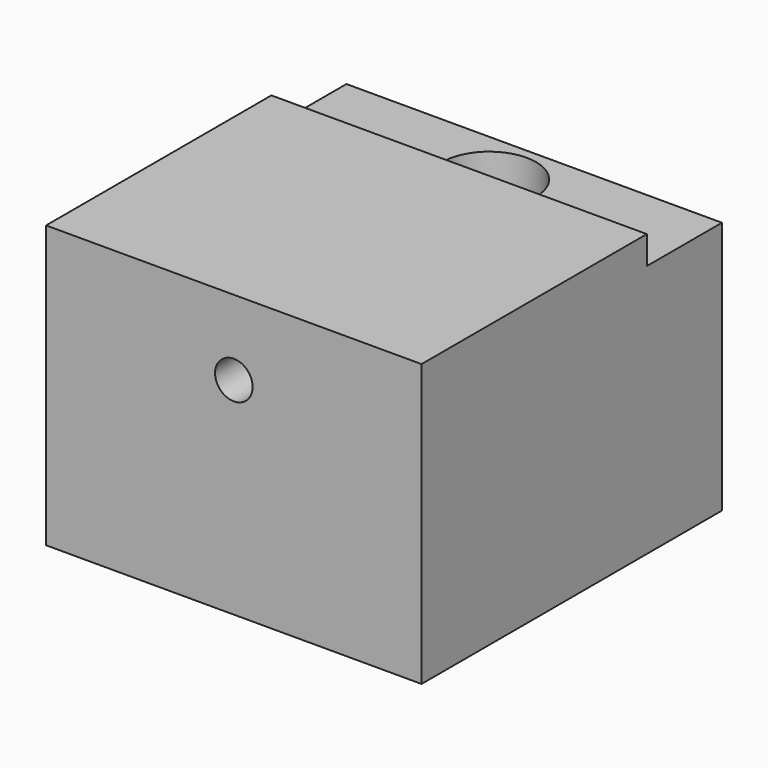
from build123d import *

# Parameters (mm, degrees)
F0_W     = 20
F0_H     = 20
F1_DEPTH = 15
F2_W     = 50.179663
F2_H     = 15.178498
F3_DEPTH = 1.5
F4_R     = 2.5
F5_DEPTH = 4
F6_R     = 1
F7_DEPTH = 25


with BuildPart() as f1:
    # F0 (on Top) → F1 (new body)
    with BuildSketch(Plane.XY):
        Rectangle(F0_W, F0_H)
    extrude(amount=F1_DEPTH)

    # F2 (on face) → F3 (cut)
    with BuildSketch(Plane.XY.offset(15)):
        with Locations((-0.497311, 12.589249)):
            Rectangle(F2_W, F2_H)
    extrude(amount=-F3_DEPTH, mode=Mode.SUBTRACT)

    # F4 (on face) → F5 (cut)
    with BuildSketch(Plane.XY.offset(13.5)):
        with Locations((0, 7)):
            Circle(F4_R)
    extrude(amount=-F5_DEPTH, mode=Mode.SUBTRACT)

    # F6 (on face) → F7 (cut)
    with BuildSketch(Plane(origin=(0, 5, 0), x_dir=(-1, 0, 0), z_dir=(0, 1, 0))):
        with Locations((0, 11)):
            Circle(F6_R)
    extrude(amount=-F7_DEPTH, mode=Mode.SUBTRACT)


solid = f1.part
